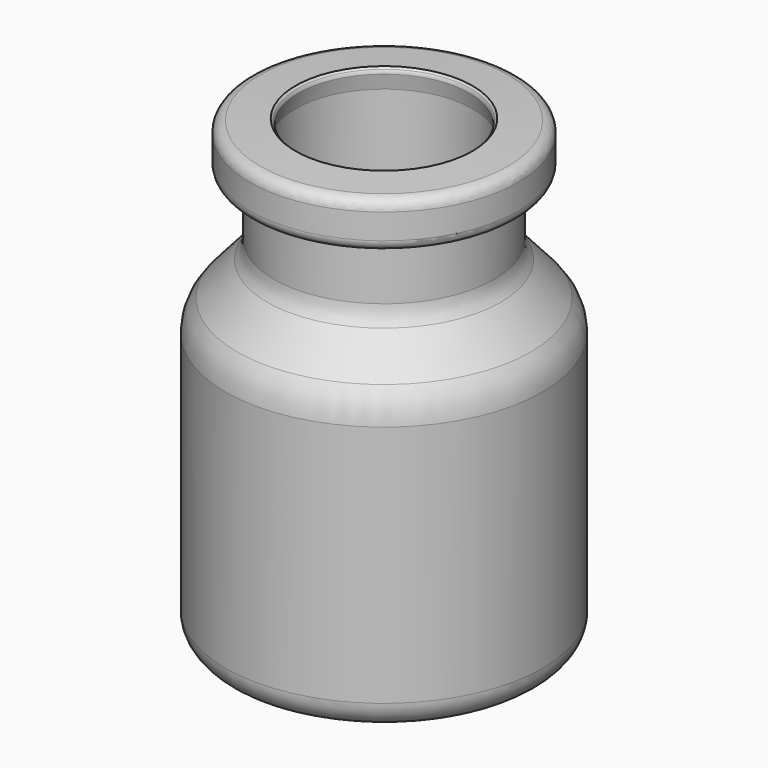
from build123d import *

# Parameters (mm, degrees)
F2_R = 0.8
F3_R = 0.3


with BuildPart() as f1:
    # F0 (on Front) → F1 (revolve)
    with BuildSketch(Plane.XZ):
        with BuildLine():
            ThreePointArc((9.667983, 0.001682), (11.134913, 0.55708), (11.75, 2))
            Line((11.75, 2), (11.75, 20))
            ThreePointArc((11.75, 20), (11.523463, 21.238724), (10.873179, 22.317096))
            Line((10.873179, 22.317096), (8.651041, 24.832773))
            ThreePointArc((8.651041, 24.832773), (8.279449, 25.448985), (8.15, 26.156828))
            Line((8.15, 26.156828), (8.15, 30.203586))
            Line((8.15, 30.203586), (9.263919, 30.4))
            ThreePointArc((9.263919, 30.4), (9.737836, 30.673616), (9.925, 31.187846))
            Line((9.925, 31.187846), (9.925, 33.823124))
            Line((9.925, 33.823124), (6.55, 34))
            Line((6.55, 34), (6.3, 33.75))
            Line((6.3, 33.75), (6.55, 32.5))
            Line((6.55, 32.5), (6.55, 25.700845))
            Line((6.55, 25.700845), (10.123699, 21.655069))
            ThreePointArc((10.123699, 21.655069), (10.588188, 20.884803), (10.75, 20))
            Line((10.75, 20), (10.75, 2.220146))
            ThreePointArc((10.75, 2.220146), (10.289841, 1.139067), (9.191691, 0.72128))
            ThreePointArc((9.191691, 0.72128), (4.596714, 0.855316), (0, 0.9))
            Line((0, 0.9), (0, 0.2))
            ThreePointArc((0, 0.2), (4.835009, 0.150415), (9.667983, 0.001682))
        make_face()
    revolve(axis=Axis((0, 0, 17.286408), (0, 0, 1)))

    # F2
    f2_edges = [f1.edges().sort_by_distance(p)[0] for p in [
        (-9.925, 0, 33.823124),
        (-6.55, 0, 25.700845),
    ]]
    fillet(f2_edges, radius=F2_R)

    # F3
    f3_edges = [f1.edges().sort_by_distance(p)[0] for p in [
        (-8.15, 0, 30.203586),
        (-6.3, 0, 33.75),
    ]]
    fillet(f3_edges, radius=F3_R)


solid = f1.part
